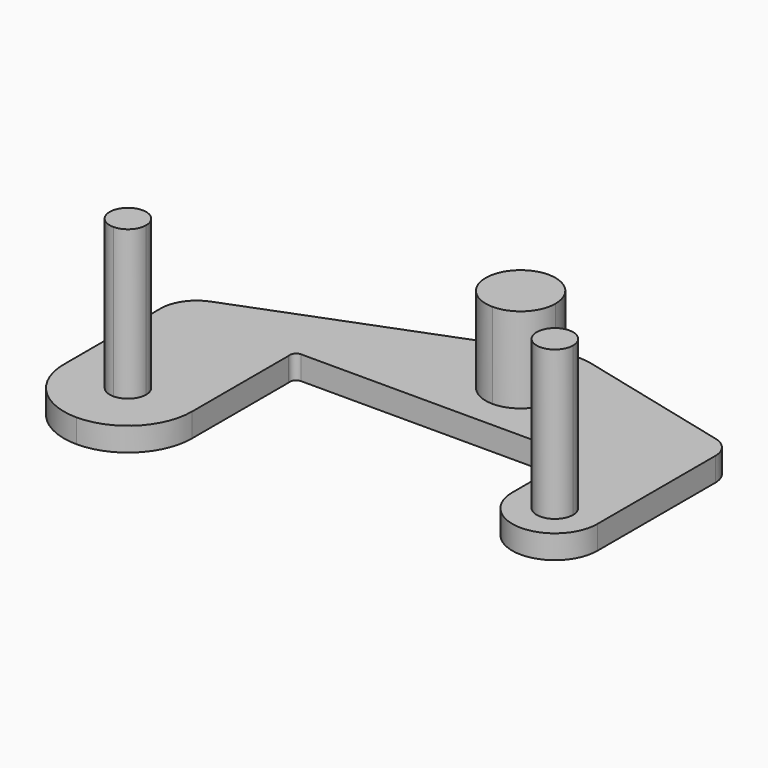
from build123d import *

# Parameters (mm, degrees)
F1_DEPTH = 0.65
F2_DEPTH = 3
F3_DEPTH = 4.75
F4_DEPTH = 4.75


with BuildPart() as f1:
    # F0 (on Top) → F1 (new body)
    with BuildSketch(Plane.XY):
        with BuildLine():
            Line((-4.6512614936, 0.2231087419), (0, 0.2231087419))
            Line((0, 0.2231087419), (0, 0.99))
            ThreePointArc((0, 0.99), (-0.96, 1.95), (0, 2.91))
            Line((0, 2.91), (0, 3.8226778984))
            ThreePointArc((0, 3.8226778984), (-0.2371237698, 3.7890083603), (-0.466442953, 3.7199139884))
            Line((-0.466442953, 3.7199139884), (-7.7056375839, 0.9249790882))
            ThreePointArc((-7.7056375839, 0.9249790882), (-8.1661885236, 0.5608143284), (-8.34, 0))
            Line((-8.34, 0), (-6.58, 0))
            Line((-6.58, 0), (-4.82, 0))
            ThreePointArc((-4.82, 0), (-4.7911276745, 0.1535270369), (-4.6512614936, 0.2231087419))
        make_face()
        with BuildLine():
            Line((-4.82, -3.32), (-4.82, 0))
            Line((-4.82, 0), (-6.58, 0))
            Line((-6.58, 0), (-6.58, -1.56))
            ThreePointArc((-6.58, -1.56), (-5.3354920651, -2.0754920651), (-4.82, -3.32))
        make_face()
        with BuildLine():
            Line((-6.58, -1.56), (-6.58, 0))
            Line((-6.58, 0), (-8.34, 0))
            Line((-8.34, 0), (-8.34, -3.32))
            ThreePointArc((-8.34, -3.32), (-7.8245079349, -2.0754920651), (-6.58, -1.56))
        make_face()
        with BuildLine():
            Line((-6.58, -2.82), (-6.58, -1.56))
            ThreePointArc((-6.58, -1.56), (-7.8245079349, -2.0754920651), (-8.34, -3.32))
            ThreePointArc((-8.34, -3.32), (-7.8245079349, -4.5645079349), (-6.58, -5.08))
            Line((-6.58, -5.08), (-6.58, -3.82))
            ThreePointArc((-6.58, -3.82), (-7.08, -3.32), (-6.58, -2.82))
        make_face()
        with BuildLine():
            ThreePointArc((-6.58, -5.08), (-5.3354920651, -4.5645079349), (-4.82, -3.32))
            ThreePointArc((-4.82, -3.32), (-5.3354920651, -2.0754920651), (-6.58, -1.56))
            Line((-6.58, -1.56), (-6.58, -2.82))
            ThreePointArc((-6.58, -2.82), (-6.2264466094, -2.9664466094), (-6.08, -3.32))
            ThreePointArc((-6.08, -3.32), (-6.2264466094, -3.6735533906), (-6.58, -3.82))
            Line((-6.58, -3.82), (-6.58, -5.08))
        make_face()
        with BuildLine():
            Line((0, 0.99), (0, 0.2231087419))
            Line((0, 0.2231087419), (2.7393251657, 0.2231087419))
            ThreePointArc((2.7393251657, 0.2231087419), (2.876796902, 0.152700438), (2.9, 0))
            Line((2.9, 0), (4.07, 0))
            Line((4.07, 0), (5.24, 0))
            Line((5.24, 0), (5.24, 2.0952394856))
            ThreePointArc((5.24, 2.0952394856), (5.1043154194, 2.4891973383), (4.7548148148, 2.7160506443))
            Line((4.7548148148, 2.7160506443), (0.4851851852, 3.7791888413))
            ThreePointArc((0.4851851852, 3.7791888413), (0.2442772634, 3.8197283811), (0, 3.8226778984))
            Line((0, 3.8226778984), (0, 2.91))
            ThreePointArc((0, 2.91), (0.6788225099, 2.6288225099), (0.96, 1.95))
            ThreePointArc((0.96, 1.95), (0.6788225099, 1.2711774901), (0, 0.99))
        make_face()
        with BuildLine():
            Line((4.07, 0), (2.9, 0))
            Line((2.9, 0), (2.9, -1.96))
            ThreePointArc((2.9, -1.96), (3.242685066, -1.132685066), (4.07, -0.79))
            Line((4.07, -0.79), (4.07, 0))
        make_face()
        with BuildLine():
            Line((5.24, 0), (4.07, 0))
            Line((4.07, 0), (4.07, -0.79))
            ThreePointArc((4.07, -0.79), (4.897314934, -1.132685066), (5.24, -1.96))
            Line((5.24, -1.96), (5.24, 0))
        make_face()
        with BuildLine():
            ThreePointArc((5.24, -1.96), (4.897314934, -1.132685066), (4.07, -0.79))
            Line((4.07, -0.79), (4.07, -1.46))
            ThreePointArc((4.07, -1.46), (4.4235533906, -1.6064466094), (4.57, -1.96))
            Line((4.57, -1.96), (5.24, -1.96))
        make_face()
        with BuildLine():
            ThreePointArc((4.07, -0.79), (3.242685066, -1.132685066), (2.9, -1.96))
            Line((2.9, -1.96), (3.57, -1.96))
            ThreePointArc((3.57, -1.96), (3.7164466094, -1.6064466094), (4.07, -1.46))
            Line((4.07, -1.46), (4.07, -0.79))
        make_face()
        with BuildLine():
            Line((3.57, -1.96), (2.9, -1.96))
            ThreePointArc((2.9, -1.96), (4.07, -3.13), (5.24, -1.96))
            Line((5.24, -1.96), (4.57, -1.96))
            ThreePointArc((4.57, -1.96), (4.07, -2.46), (3.57, -1.96))
        make_face()
    extrude(amount=F1_DEPTH)


with BuildPart() as f2:
    # F0 (on Top) → F2 (new body)
    with BuildSketch(Plane.XY):
        with BuildLine():
            ThreePointArc((0, 2.91), (-0.96, 1.95), (0, 0.99))
            Line((0, 0.99), (0, 1.95))
            Line((0, 1.95), (0, 2.91))
        make_face()
        with BuildLine():
            Line((0, 1.95), (0, 0.99))
            ThreePointArc((0, 0.99), (0.6788225099, 1.2711774901), (0.96, 1.95))
            ThreePointArc((0.96, 1.95), (0.6788225099, 2.6288225099), (0, 2.91))
            Line((0, 2.91), (0, 1.95))
        make_face()
    extrude(amount=F2_DEPTH)


with BuildPart() as f3:
    # F0 (on Top) → F3 (new body)
    with BuildSketch(Plane.XY):
        with BuildLine():
            ThreePointArc((-6.08, -3.32), (-6.2264466094, -2.9664466094), (-6.58, -2.82))
            Line((-6.58, -2.82), (-6.58, -3.32))
            Line((-6.58, -3.32), (-6.58, -3.82))
            ThreePointArc((-6.58, -3.82), (-6.2264466094, -3.6735533906), (-6.08, -3.32))
        make_face()
        with BuildLine():
            Line((-6.58, -3.32), (-6.58, -2.82))
            ThreePointArc((-6.58, -2.82), (-7.08, -3.32), (-6.58, -3.82))
            Line((-6.58, -3.82), (-6.58, -3.32))
        make_face()
    extrude(amount=F3_DEPTH)


with BuildPart() as f4:
    # F0 (on Top) → F4 (new body)
    with BuildSketch(Plane.XY):
        with BuildLine():
            ThreePointArc((4.57, -1.96), (4.4235533906, -1.6064466094), (4.07, -1.46))
            Line((4.07, -1.46), (4.07, -1.96))
            Line((4.07, -1.96), (4.57, -1.96))
        make_face()
        with BuildLine():
            ThreePointArc((4.07, -1.46), (3.7164466094, -1.6064466094), (3.57, -1.96))
            Line((3.57, -1.96), (4.07, -1.96))
            Line((4.07, -1.96), (4.07, -1.46))
        make_face()
        with BuildLine():
            Line((4.07, -1.96), (3.57, -1.96))
            ThreePointArc((3.57, -1.96), (4.07, -2.46), (4.57, -1.96))
            Line((4.57, -1.96), (4.07, -1.96))
        make_face()
    extrude(amount=F4_DEPTH)


solid = Compound([f1.part, f2.part, f3.part, f4.part])
